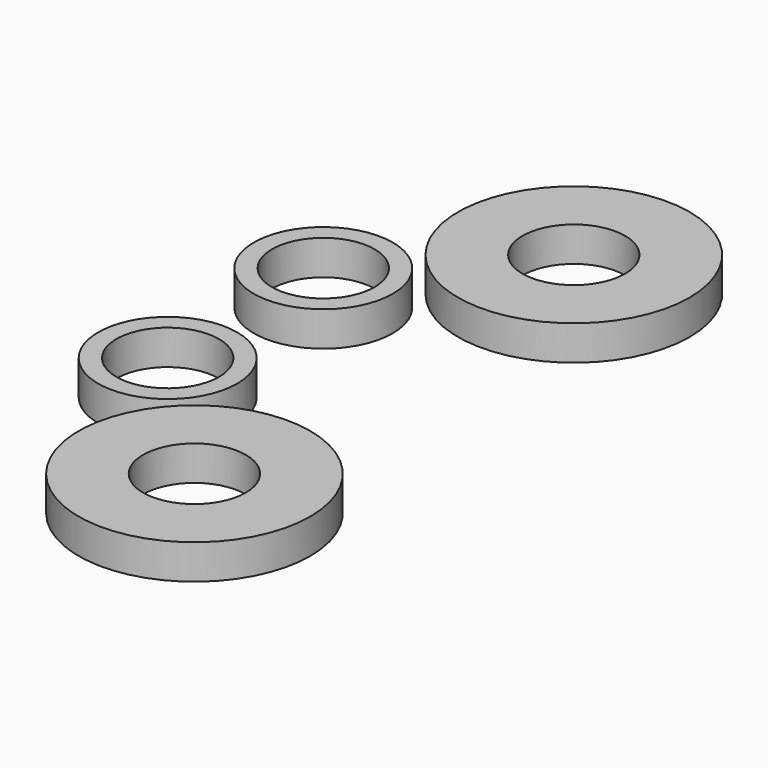
from build123d import *

# Parameters (mm, degrees)
F0_R     = 15.24
F0_R_2   = 11.25
F0_R_3   = 25.4
F1_DEPTH = 7.62


with BuildPart() as f1:
    # F0 (on Top) → F1 (new body)
    with BuildSketch(Plane.XY):
        Circle(F0_R)
        Circle(F0_R_2, mode=Mode.SUBTRACT)
        with Locations((30.39807, 30.667079)):
            Circle(F0_R_3)
        with Locations((30.39807, 30.667079)):
            Circle(F0_R_2, mode=Mode.SUBTRACT)
        with Locations((0, -42.640761)):
            Circle(F0_R)
        with Locations((0, -42.640761)):
            Circle(F0_R_2, mode=Mode.SUBTRACT)
        with Locations((30.39807, -73.307839)):
            Circle(F0_R_3)
        with Locations((30.39807, -73.307839)):
            Circle(F0_R_2, mode=Mode.SUBTRACT)
    extrude(amount=F1_DEPTH)


solid = f1.part
